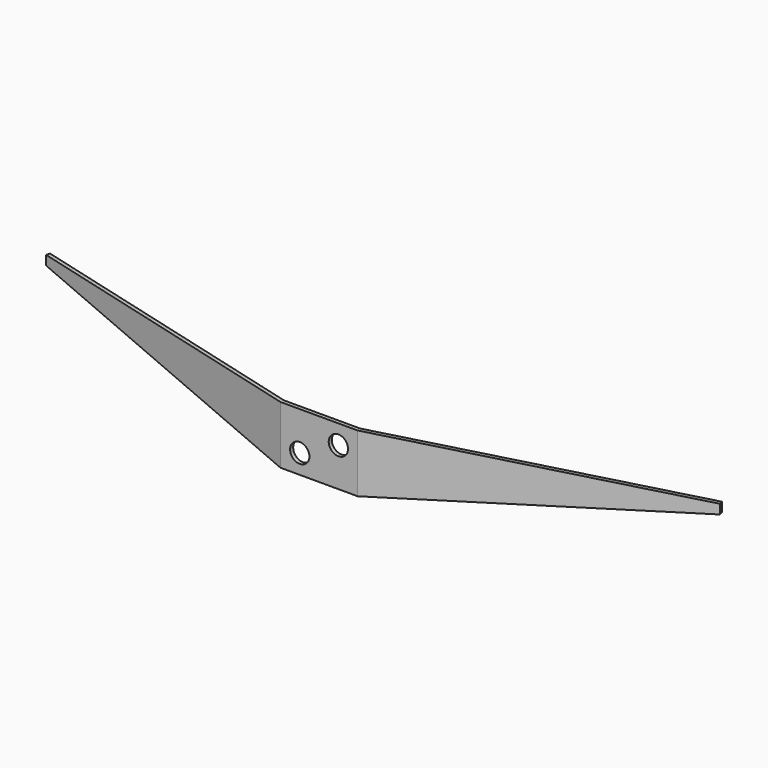
from build123d import *

# Parameters (mm, degrees)
F1_DEPTH = 15
F3_DEPTH = 21.672449
F5_D     = 5


with BuildPart() as f1:
    # F0 (on Top) → F1 (new body)
    with BuildSketch(Plane.XY):
        Polygon((-77.274066, 20.705524), (0, 0), (20, 0), (97.274066, 20.705524), (97.015247, 21.671449), (19.868348, 1), (0.131652, 1), (-77.015247, 21.671449), align=None)
    extrude(amount=F1_DEPTH)

    # F2 (on Front) → F3 (cut, through all)
    with BuildSketch(Plane.XZ):
        Polygon((-80, 0), (0, 0), (-80, 13), align=None)
        Polygon((99.983092, 13), (19.983092, 0), (99.983092, 0), align=None)
    extrude(amount=-F3_DEPTH, mode=Mode.SUBTRACT)

    # F5 (through all)
    with Locations(Plane.XZ):
        with Locations((5, 5), (15, 10)):
            Hole(F5_D / 2)


solid = f1.part
